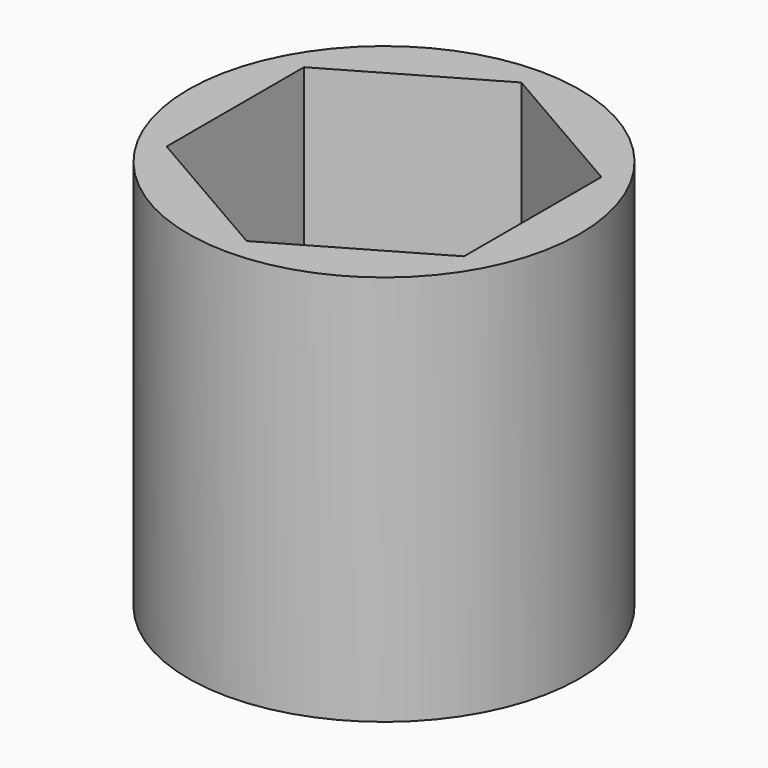
from build123d import *

# Parameters (mm, degrees)
F0_R     = 12.7
F1_DEPTH = 25.4
F0_R_2   = 2.125
F2_DEPTH = 10.16


with BuildPart() as f1:
    # F0 (on Top) → F1 (new body)
    with BuildSketch(Plane.XY):
        Circle(F0_R)
        Polygon((0, 11.14517), (9.652, 5.572585), (9.652, -5.572585), (0, -11.14517), (-9.652, -5.572585), (-9.652, 5.572585), align=None, mode=Mode.SUBTRACT)
    extrude(amount=F1_DEPTH)

    # F0 (on Top) → F2 (join)
    with BuildSketch(Plane.XY):
        Polygon((9.652, -5.572585), (9.652, 5.572585), (0, 11.14517), (-9.652, 5.572585), (-9.652, -5.572585), (0, -11.14517), align=None)
        Circle(F0_R_2, mode=Mode.SUBTRACT)
    extrude(amount=F2_DEPTH)


solid = f1.part
